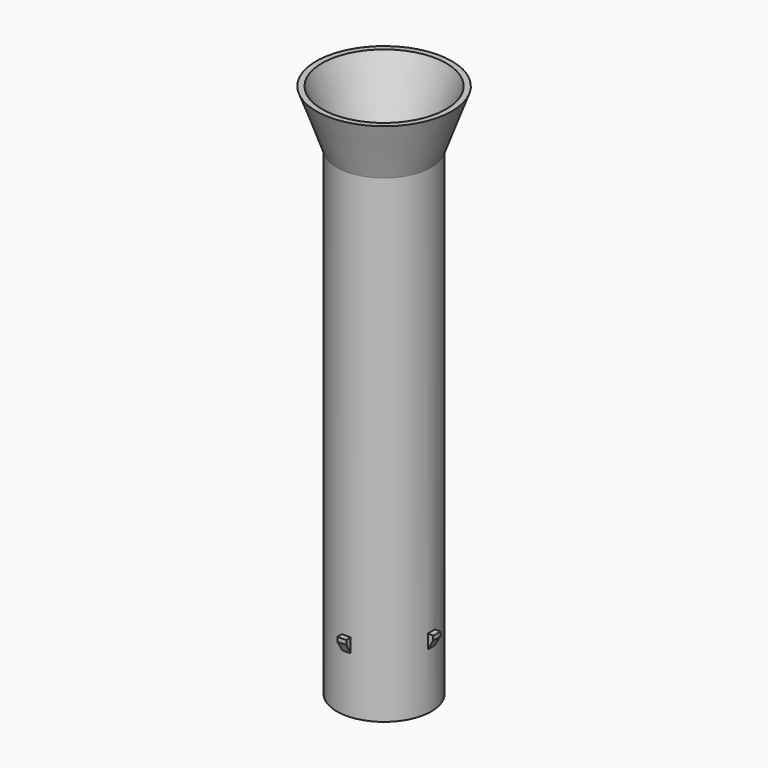
from build123d import *

# Parameters (mm, degrees)
F0_R     = 21.336
F0_R_2   = 18.796
F1_DEPTH = 215.9
F5_START = -184.15
F5_DEPTH = 6.35


with BuildPart() as f1:
    # F0 (on Top) → F1 (new body)
    with BuildSketch(Plane.XY):
        Circle(F0_R)
        Circle(F0_R_2, mode=Mode.SUBTRACT)
    extrude(amount=-F1_DEPTH)

    # F2 (on Front) → F3 (revolve)
    with BuildSketch(Plane.XZ):
        Polygon((18.796, 0), (21.336, 0), (30.5808439504, 25.4), (28.0408439504, 25.4), align=None)
    revolve(axis=Axis((0, 0, 12.7485655248), (0, 0, 1)))

    # F4 (on Top) → F5 (join)
    with BuildSketch(Plane.XY.offset(F5_START)):
        with BuildLine():
            Line((-23.7851446116, -2.0809305138), (-21.2548100785, -1.8595549273))
            ThreePointArc((-21.2548100785, -1.8595549273), (-21.336, 0), (-21.2548100785, 1.8595549273))
            Line((-21.2548100785, 1.8595549273), (-23.7851446116, 2.0809305138))
            ThreePointArc((-23.7851446116, 2.0809305138), (-23.876, 0), (-23.7851446116, -2.0809305138))
        make_face()
        with BuildLine():
            Line((-2.0809305138, 23.7851446116), (-1.8595549273, 21.2548100785))
            ThreePointArc((-1.8595549273, 21.2548100785), (0, 21.336), (1.8595549273, 21.2548100785))
            Line((1.8595549273, 21.2548100785), (2.0809305138, 23.7851446116))
            ThreePointArc((2.0809305138, 23.7851446116), (0, 23.876), (-2.0809305138, 23.7851446116))
        make_face()
        with BuildLine():
            Line((23.7851446116, 2.0809305138), (21.2548100785, 1.8595549273))
            ThreePointArc((21.2548100785, 1.8595549273), (21.336, 0), (21.2548100785, -1.8595549273))
            Line((21.2548100785, -1.8595549273), (23.7851446116, -2.0809305138))
            ThreePointArc((23.7851446116, -2.0809305138), (23.876, 0), (23.7851446116, 2.0809305138))
        make_face()
        with BuildLine():
            Line((2.0809305138, -23.7851446116), (1.8595549273, -21.2548100785))
            ThreePointArc((1.8595549273, -21.2548100785), (0, -21.336), (-1.8595549273, -21.2548100785))
            Line((-1.8595549273, -21.2548100785), (-2.0809305138, -23.7851446116))
            ThreePointArc((-2.0809305138, -23.7851446116), (0, -23.876), (2.0809305138, -23.7851446116))
        make_face()
    extrude(amount=-F5_DEPTH)

    # F6 (on Front) → F7 (revolve, cut)
    with BuildSketch(Plane.XZ):
        Polygon((23.876, -186.1005909488), (21.336, -190.5), (23.876, -190.5), align=None)
    revolve(axis=Axis((0, 0, -83.1778421998), (0, 0, -1)), mode=Mode.SUBTRACT)


solid = f1.part
